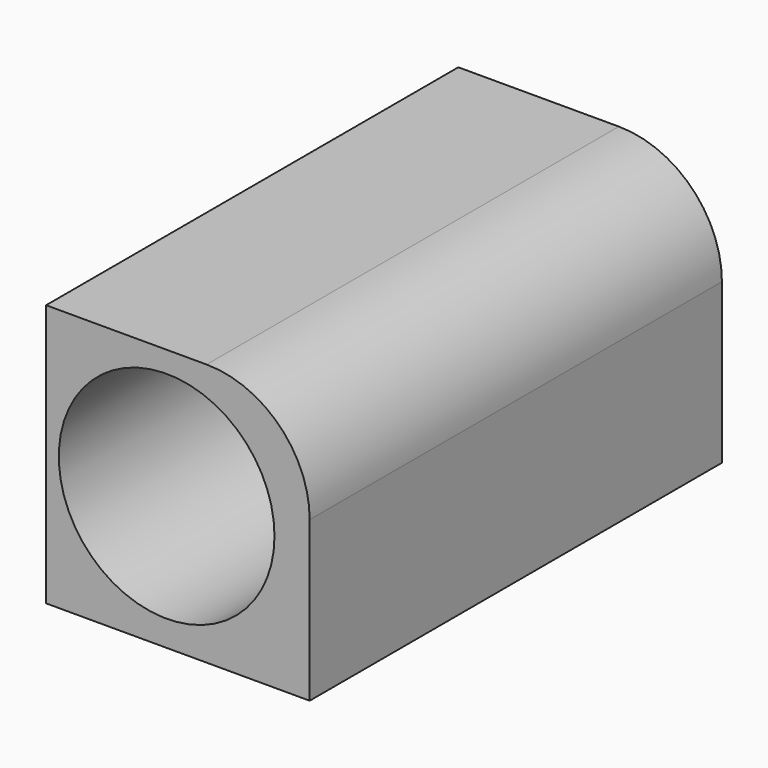
from build123d import *

# Parameters (mm, degrees)
F0_W     = 129.935503
F0_H     = 129.381798
F0_R     = 53.156474
F1_DEPTH = 254
F2_R     = 50.8


with BuildPart() as f1:
    # F0 (on Front) → F1 (new body)
    with BuildSketch(Plane.XZ):
        with Locations((5.537025, -1.107406)):
            Rectangle(F0_W, F0_H)
        Circle(F0_R, mode=Mode.SUBTRACT)
    extrude(amount=F1_DEPTH)

    # F2
    f2_edges = [f1.edges().sort_by_distance(p)[0] for p in [
        (70.504777, -127, 63.583493),
    ]]
    fillet(f2_edges, radius=F2_R)


solid = f1.part
